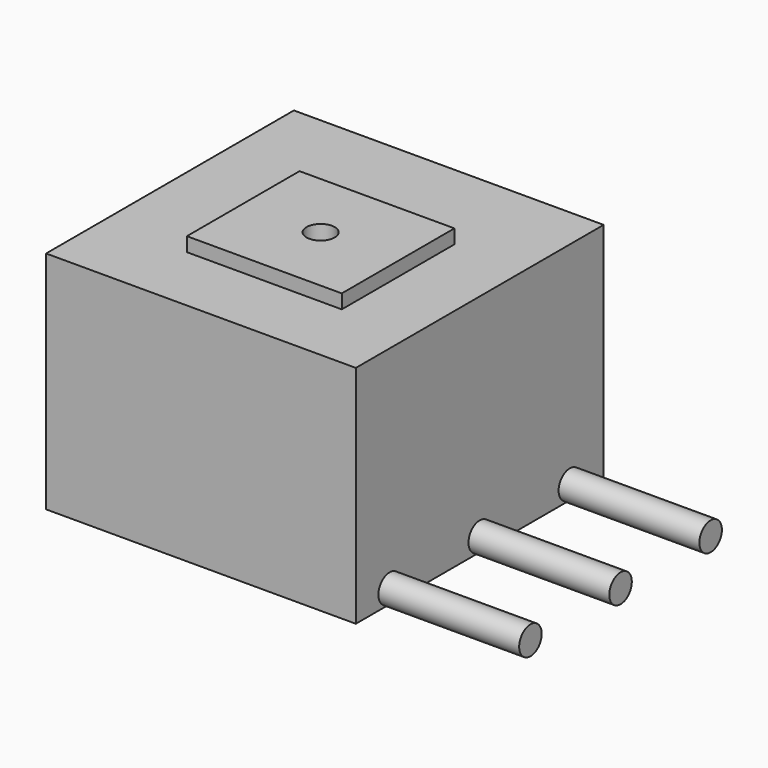
from build123d import *

# Parameters (mm, degrees)
SKETCH_W     = 11
SKETCH_H     = 11
PAD_DEPTH    = 8
SKETCH001_R  = 0.5
PAD001_DEPTH = 5
SKETCH002_W  = 5.5
SKETCH002_H  = 5
PAD002_DEPTH = 0.5
SKETCH003_R  = 0.5
POCKET_DEPTH = 2


with BuildPart() as part:
    # Sketch → Pad (new body)
    with BuildSketch(Plane.XY):
        Rectangle(SKETCH_W, SKETCH_H)
    extrude(amount=PAD_DEPTH)

    # Sketch001 (on Face2 of Pad) → Pad001 (join)
    with BuildSketch(Plane.YZ.offset(5.5)):
        with Locations((-4, 0.5)):
            Circle(SKETCH001_R)
        with Locations((0, 0.5)):
            Circle(SKETCH001_R)
        with Locations((4, 0.5)):
            Circle(SKETCH001_R)
    extrude(amount=PAD001_DEPTH)

    # Sketch002 (on Face5 of Pad001) → Pad002 (join)
    with BuildSketch(Plane.XY.offset(8)):
        with Locations((0.25, -0.5)):
            Rectangle(SKETCH002_W, SKETCH002_H)
    extrude(amount=PAD002_DEPTH)

    # Sketch003 (on Face17 of Pad002) → Pocket (cut)
    with BuildSketch(Plane.XY.offset(8.5)):
        with Locations((0.25, -0.5)):
            Circle(SKETCH003_R)
    extrude(amount=-POCKET_DEPTH, mode=Mode.SUBTRACT)


solid = part.part
